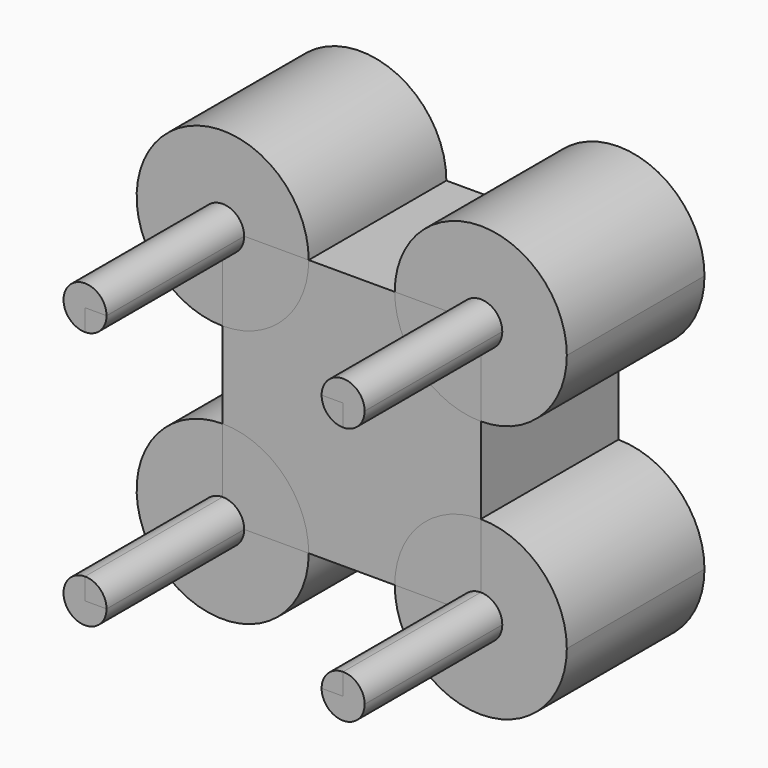
from build123d import *

# Parameters (mm, degrees)
F1_DEPTH = 50.8
F2_DEPTH = 101.6
F3_DEPTH = 50.8
F4_DEPTH = 101.6


with BuildPart() as f1:
    # F0 (on Front) → F1 (new body)
    with BuildSketch(Plane.XZ):
        with BuildLine():
            Line((12.7, 38.1), (-12.7, 38.1))
            ThreePointArc((-12.7, 38.1), (-20.1394877579, 20.1394877579), (-38.1, 12.7))
            Line((-38.1, 12.7), (-38.1, -12.7))
            ThreePointArc((-38.1, -12.7), (-20.1394877579, -20.1394877579), (-12.7, -38.1))
            Line((-12.7, -38.1), (12.7, -38.1))
            ThreePointArc((12.7, -38.1), (20.1394877579, -20.1394877579), (38.1, -12.7))
            Line((38.1, -12.7), (38.1, 12.7))
            ThreePointArc((38.1, 12.7), (20.1394877579, 20.1394877579), (12.7, 38.1))
        make_face()
    extrude(amount=F1_DEPTH)


with BuildPart() as f1b:
    # F0 (on Front) → F1, piece 2 (new body)
    with BuildSketch(Plane.XZ):
        with BuildLine():
            Line((-31.75, 38.1), (-12.7, 38.1))
            ThreePointArc((-12.7, 38.1), (-56.0605122421, 56.0605122421), (-38.1, 12.7))
            Line((-38.1, 12.7), (-38.1, 31.75))
            ThreePointArc((-38.1, 31.75), (-42.5901280605, 42.5901280605), (-31.75, 38.1))
        make_face()
    extrude(amount=F1_DEPTH)


with BuildPart() as f1c:
    # F0 (on Front) → F1, piece 3 (new body)
    with BuildSketch(Plane.XZ):
        with BuildLine():
            ThreePointArc((63.5, 38.1), (38.1, 63.5), (12.7, 38.1))
            Line((12.7, 38.1), (31.75, 38.1))
            ThreePointArc((31.75, 38.1), (38.1, 44.45), (44.45, 38.1))
            ThreePointArc((44.45, 38.1), (42.5901280605, 33.6098719395), (38.1, 31.75))
            Line((38.1, 31.75), (38.1, 12.7))
            ThreePointArc((38.1, 12.7), (56.0605122421, 20.1394877579), (63.5, 38.1))
        make_face()
    extrude(amount=F1_DEPTH)


with BuildPart() as f1d:
    # F0 (on Front) → F1, piece 4 (new body)
    with BuildSketch(Plane.XZ):
        with BuildLine():
            ThreePointArc((63.5, -38.1), (56.0605122421, -20.1394877579), (38.1, -12.7))
            Line((38.1, -12.7), (38.1, -31.75))
            ThreePointArc((38.1, -31.75), (42.5901280605, -33.6098719395), (44.45, -38.1))
            ThreePointArc((44.45, -38.1), (38.1, -44.45), (31.75, -38.1))
            Line((31.75, -38.1), (12.7, -38.1))
            ThreePointArc((12.7, -38.1), (38.1, -63.5), (63.5, -38.1))
        make_face()
    extrude(amount=F1_DEPTH)


with BuildPart() as f1e:
    # F0 (on Front) → F1, piece 5 (new body)
    with BuildSketch(Plane.XZ):
        with BuildLine():
            Line((-38.1, -31.75), (-38.1, -12.7))
            ThreePointArc((-38.1, -12.7), (-56.0605122421, -56.0605122421), (-12.7, -38.1))
            Line((-12.7, -38.1), (-31.75, -38.1))
            ThreePointArc((-31.75, -38.1), (-42.5901280605, -42.5901280605), (-38.1, -31.75))
        make_face()
    extrude(amount=F1_DEPTH)


with BuildPart() as f2:
    # F0 (on Front) → F2 (new body)
    with BuildSketch(Plane.XZ):
        with BuildLine():
            Line((-38.1, 38.1), (-31.75, 38.1))
            ThreePointArc((-31.75, 38.1), (-42.5901280605, 42.5901280605), (-38.1, 31.75))
            Line((-38.1, 31.75), (-38.1, 38.1))
        make_face()
    extrude(amount=F2_DEPTH)


with BuildPart() as f2b:
    # F0 (on Front) → F2, piece 2 (new body)
    with BuildSketch(Plane.XZ):
        with BuildLine():
            ThreePointArc((44.45, 38.1), (38.1, 44.45), (31.75, 38.1))
            Line((31.75, 38.1), (38.1, 38.1))
            Line((38.1, 38.1), (38.1, 31.75))
            ThreePointArc((38.1, 31.75), (42.5901280605, 33.6098719395), (44.45, 38.1))
        make_face()
    extrude(amount=F2_DEPTH)


with BuildPart() as f2c:
    # F0 (on Front) → F2, piece 3 (new body)
    with BuildSketch(Plane.XZ):
        with BuildLine():
            ThreePointArc((44.45, -38.1), (42.5901280605, -33.6098719395), (38.1, -31.75))
            Line((38.1, -31.75), (38.1, -38.1))
            Line((38.1, -38.1), (31.75, -38.1))
            ThreePointArc((31.75, -38.1), (38.1, -44.45), (44.45, -38.1))
        make_face()
    extrude(amount=F2_DEPTH)


with BuildPart() as f2d:
    # F0 (on Front) → F2, piece 4 (new body)
    with BuildSketch(Plane.XZ):
        with BuildLine():
            Line((-38.1, -38.1), (-38.1, -31.75))
            ThreePointArc((-38.1, -31.75), (-42.5901280605, -42.5901280605), (-31.75, -38.1))
            Line((-31.75, -38.1), (-38.1, -38.1))
        make_face()
    extrude(amount=F2_DEPTH)


with BuildPart() as f3:
    # F0 (on Front) → F3 (new body)
    with BuildSketch(Plane.XZ):
        with BuildLine():
            ThreePointArc((-12.7, -38.1), (-20.1394877579, -20.1394877579), (-38.1, -12.7))
            Line((-38.1, -12.7), (-38.1, -31.75))
            ThreePointArc((-38.1, -31.75), (-33.6098719395, -33.6098719395), (-31.75, -38.1))
            Line((-31.75, -38.1), (-12.7, -38.1))
        make_face()
    extrude(amount=F3_DEPTH)


with BuildPart() as f3b:
    # F0 (on Front) → F3, piece 2 (new body)
    with BuildSketch(Plane.XZ):
        with BuildLine():
            Line((38.1, -31.75), (38.1, -12.7))
            ThreePointArc((38.1, -12.7), (20.1394877579, -20.1394877579), (12.7, -38.1))
            Line((12.7, -38.1), (31.75, -38.1))
            ThreePointArc((31.75, -38.1), (33.6098719395, -33.6098719395), (38.1, -31.75))
        make_face()
    extrude(amount=F3_DEPTH)


with BuildPart() as f3c:
    # F0 (on Front) → F3, piece 3 (new body)
    with BuildSketch(Plane.XZ):
        with BuildLine():
            Line((31.75, 38.1), (12.7, 38.1))
            ThreePointArc((12.7, 38.1), (20.1394877579, 20.1394877579), (38.1, 12.7))
            Line((38.1, 12.7), (38.1, 31.75))
            ThreePointArc((38.1, 31.75), (33.6098719395, 33.6098719395), (31.75, 38.1))
        make_face()
    extrude(amount=F3_DEPTH)


with BuildPart() as f3d:
    # F0 (on Front) → F3, piece 4 (new body)
    with BuildSketch(Plane.XZ):
        with BuildLine():
            ThreePointArc((-38.1, 12.7), (-20.1394877579, 20.1394877579), (-12.7, 38.1))
            Line((-12.7, 38.1), (-31.75, 38.1))
            ThreePointArc((-31.75, 38.1), (-33.6098719395, 33.6098719395), (-38.1, 31.75))
            Line((-38.1, 31.75), (-38.1, 12.7))
        make_face()
    extrude(amount=F3_DEPTH)


with BuildPart() as f4:
    # F0 (on Front) → F4 (new body)
    with BuildSketch(Plane.XZ):
        with BuildLine():
            ThreePointArc((-38.1, 31.75), (-33.6098719395, 33.6098719395), (-31.75, 38.1))
            Line((-31.75, 38.1), (-38.1, 38.1))
            Line((-38.1, 38.1), (-38.1, 31.75))
        make_face()
    extrude(amount=F4_DEPTH)


with BuildPart() as f4b:
    # F0 (on Front) → F4, piece 2 (new body)
    with BuildSketch(Plane.XZ):
        with BuildLine():
            ThreePointArc((-31.75, -38.1), (-33.6098719395, -33.6098719395), (-38.1, -31.75))
            Line((-38.1, -31.75), (-38.1, -38.1))
            Line((-38.1, -38.1), (-31.75, -38.1))
        make_face()
    extrude(amount=F4_DEPTH)


with BuildPart() as f4c:
    # F0 (on Front) → F4, piece 3 (new body)
    with BuildSketch(Plane.XZ):
        with BuildLine():
            Line((38.1, -38.1), (38.1, -31.75))
            ThreePointArc((38.1, -31.75), (33.6098719395, -33.6098719395), (31.75, -38.1))
            Line((31.75, -38.1), (38.1, -38.1))
        make_face()
    extrude(amount=F4_DEPTH)


with BuildPart() as f4d:
    # F0 (on Front) → F4, piece 4 (new body)
    with BuildSketch(Plane.XZ):
        with BuildLine():
            Line((38.1, 38.1), (31.75, 38.1))
            ThreePointArc((31.75, 38.1), (33.6098719395, 33.6098719395), (38.1, 31.75))
            Line((38.1, 31.75), (38.1, 38.1))
        make_face()
    extrude(amount=F4_DEPTH)


solid = Compound([f1.part, f1b.part, f1c.part, f1d.part, f1e.part, f2.part, f2b.part, f2c.part, f2d.part, f3.part, f3b.part, f3c.part, f3d.part, f4.part, f4b.part, f4c.part, f4d.part])
